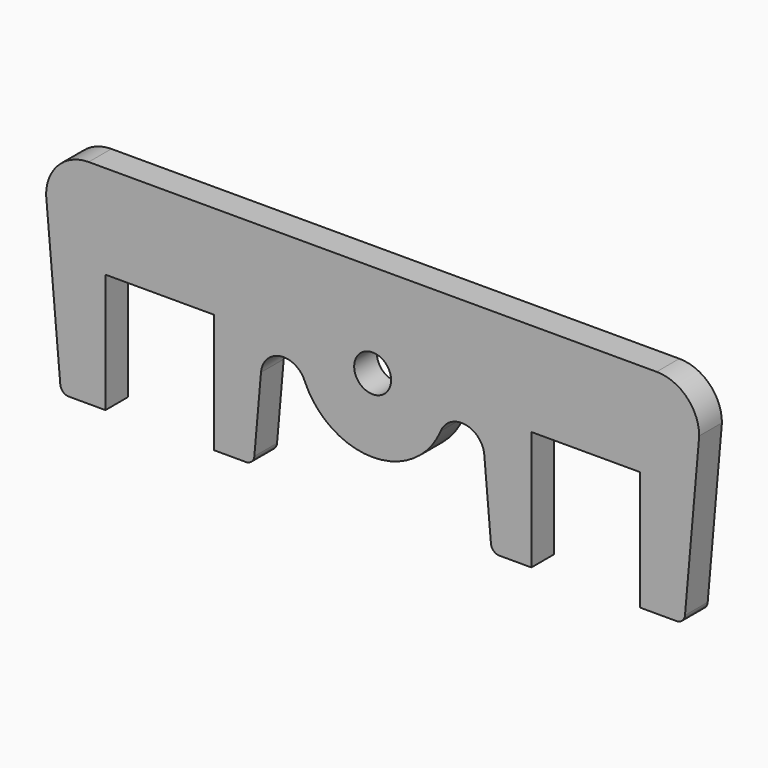
from build123d import *

# Parameters (mm, degrees)
F1_DEPTH = 10


with BuildPart() as f1:
    # F0 (on Front) → F1 (new body)
    with BuildSketch(Plane.XZ):
        with BuildLine():
            Line((-55.9, -37.5), (-44.648994, -37.5))
            ThreePointArc((-44.648994, -37.5), (-42.622223, -36.711832), (-41.660409, -34.761467))
            Line((-41.660409, -34.761467), (-39.316447, -7.969854))
            ThreePointArc((-39.316447, -7.969854), (-32.58351, -0.763255), (-23.971151, -5.568959))
            ThreePointArc((-23.971151, -5.568959), (-14.391092, -17.154017), (0, -21.5))
            ThreePointArc((0, -21.5), (14.391092, -17.154017), (23.971151, -5.568959))
            ThreePointArc((23.971151, -5.568959), (32.58351, -0.763255), (39.316447, -7.969854))
            Line((39.316447, -7.969854), (41.660409, -34.761467))
            ThreePointArc((41.660409, -34.761467), (42.622223, -36.711832), (44.648994, -37.5))
            Line((44.648994, -37.5), (55.9, -37.5))
            Line((55.9, -37.5), (55.9, 4.5))
            Line((55.9, 4.5), (94.1, 4.5))
            Line((94.1, 4.5), (94.1, -37.5))
            Line((94.1, -37.5), (107.001687, -37.5))
            ThreePointArc((107.001687, -37.5), (109.028457, -36.711832), (109.990271, -34.761467))
            Line((109.990271, -34.761467), (115, 22.5))
            ThreePointArc((115, 22.5), (110.606602, 33.106602), (100, 37.5))
            Line((100, 37.5), (0, 37.5))
            Line((0, 37.5), (-100, 37.5))
            ThreePointArc((-100, 37.5), (-110.606602, 33.106602), (-115, 22.5))
            Line((-115, 22.5), (-109.990271, -34.761467))
            ThreePointArc((-109.990271, -34.761467), (-109.028457, -36.711832), (-107.001687, -37.5))
            Line((-107.001687, -37.5), (-94.1, -37.5))
            Line((-94.1, -37.5), (-94.1, 4.5))
            Line((-94.1, 4.5), (-55.9, 4.5))
            Line((-55.9, 4.5), (-55.9, -37.5))
        make_face()
        with BuildLine():
            ThreePointArc((0, -2), (-6.5, 4.5), (0, 11))
            ThreePointArc((0, 11), (6.5, 4.5), (0, -2))
        make_face(mode=Mode.SUBTRACT)
    extrude(amount=F1_DEPTH)


solid = f1.part
